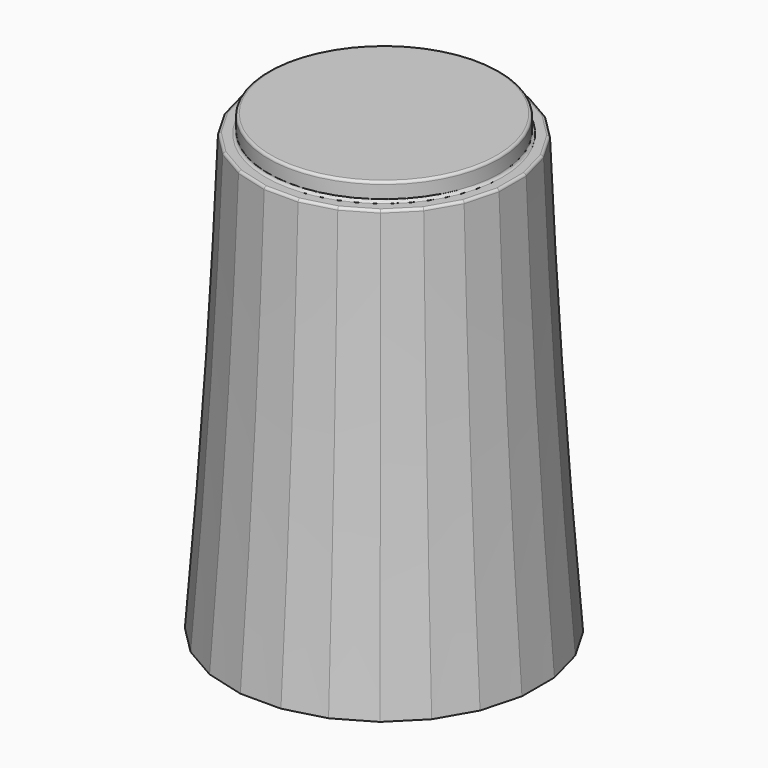
from build123d import *

# Parameters (mm, degrees)
SKETCH091_R     = 4.5
PAD022_DEPTH    = 0.7
SKETCH090_R     = 5
POCKET034_DEPTH = 1
SKETCH088_R     = 4.65
POCKET033_DEPTH = 1
POCKET035_DEPTH = 8
CHAMFER022_SIZE = 1.4
CHAMFER025_SIZE = 0.3
FILLET010_R     = 0.1


with BuildPart() as part:
    # Sketch093 → AdditiveLoft015 section 0
    with BuildSketch(Plane.XY):
        Polygon((-0.789915, 6), (-2.315914, 5.59111), (-3.684086, 4.801195), (-4.801195, 3.684086), (-5.59111, 2.315914), (-6, 0.789915), (-6, -0.789915), (-5.59111, -2.315914), (-4.801195, -3.684086), (-3.684086, -4.801195), (-2.315914, -5.59111), (-0.789915, -6), (0.789915, -6), (2.315914, -5.59111), (3.684086, -4.801195), (4.801195, -3.684086), (5.59111, -2.315914), (6, -0.789915), (6, 0.789915), (5.59111, 2.315914), (4.801195, 3.684086), (3.684086, 4.801195), (2.315914, 5.59111), (0.789915, 6), align=None)
    # Sketch092 → AdditiveLoft015 section 1
    with BuildSketch(Plane.XY.offset(7)):
        Polygon((-0.724089, 5.5), (-2.122921, 5.125184), (-3.377079, 4.401095), (-4.401095, 3.377079), (-5.125184, 2.122921), (-5.5, 0.724089), (-5.5, -0.724089), (-5.125184, -2.122921), (-4.401095, -3.377079), (-3.377079, -4.401095), (-2.122921, -5.125184), (-0.724089, -5.5), (0.724089, -5.5), (2.122921, -5.125184), (3.377079, -4.401095), (4.401095, -3.377079), (5.125184, -2.122921), (5.5, -0.724089), (5.5, 0.724089), (5.125184, 2.122921), (4.401095, 3.377079), (3.377079, 4.401095), (2.122921, 5.125184), (0.724089, 5.5), align=None)
    # Sketch094 → AdditiveLoft015 section 2
    with BuildSketch(Plane.XY.offset(17)):
        Polygon((-4.659258, 1.929928), (-5, 0.658262), (-5, -0.658262), (-4.659258, -1.929928), (-4.000996, -3.070072), (-3.070072, -4.000996), (-1.929928, -4.659258), (-0.658262, -5), (0.658262, -5), (1.929928, -4.659258), (3.070072, -4.000996), (4.000996, -3.070072), (4.659258, -1.929928), (5, -0.658262), (5, 0.658262), (4.659258, 1.929928), (4.000996, 3.070072), (3.070072, 4.000996), (1.929928, 4.659258), (0.658262, 5), (-0.658262, 5), (-1.929928, 4.659258), (-3.070072, 4.000996), (-4.000996, 3.070072), align=None)
    loft()

    # Sketch091 (on Face3 of AdditiveLoft015) → Pad022 (new body)
    with BuildSketch(Plane.XY.offset(17)):
        Circle(SKETCH091_R)
    extrude(amount=PAD022_DEPTH)

    # Sketch090 (on Face1 of Pad022) → Pocket034 (cut)
    with BuildSketch(Plane(origin=(0, 0, 0), x_dir=(1, 0, 0), z_dir=(0, 0, -1))):
        Circle(SKETCH090_R)
    extrude(amount=-POCKET034_DEPTH, mode=Mode.SUBTRACT)

    # Sketch088 (on Face28 of Pocket034) → Pocket033 (cut)
    with BuildSketch(Plane(origin=(0, 0, 1), x_dir=(1, 0, 0), z_dir=(0, 0, -1))):
        Circle(SKETCH088_R)
    extrude(amount=-POCKET033_DEPTH, mode=Mode.SUBTRACT)

    # Sketch089 (on Face32 of Pocket033) → Pocket035 (cut)
    with BuildSketch(Plane(origin=(0, 0, 2), x_dir=(1, 0, 0), z_dir=(0, 0, -1))):
        with BuildLine():
            ThreePointArc((-1.741757, 2.442598), (0, -3), (1.741757, 2.442598))
            Line((-1.741757, 2.442598), (1.741757, 2.442598))
        make_face()
    extrude(amount=-POCKET035_DEPTH, mode=Mode.SUBTRACT)

    # Chamfer022
    chamfer022_edges = [part.edges().sort_by_distance(p)[0] for p in [
        (0, 3, 2),
        (0, -2.442598, 2),
    ]]
    chamfer(chamfer022_edges, length=CHAMFER022_SIZE)

    # Chamfer025
    chamfer025_edges = [part.edges().sort_by_distance(p)[0] for p in [
        (-4.65, 0, 1),
    ]]
    chamfer(chamfer025_edges, length=CHAMFER025_SIZE)

    # Fillet010
    fillet010_edges = [part.edges().sort_by_distance(p)[0] for p in [
        (-4.5, 0, 17.7),
        (-4.829629, 1.294095, 17),
        (-4.330127, 2.5, 17),
        (-5, 0, 17),
        (-3.535534, 3.535534, 17),
        (-4.829629, -1.294095, 17),
        (-2.5, 4.330127, 17),
        (-4.330127, -2.5, 17),
        (-1.294095, 4.829629, 17),
        (-3.535534, -3.535534, 17),
        (0, 5, 17),
        (-2.5, -4.330127, 17),
        (1.294095, 4.829629, 17),
        (-1.294095, -4.829629, 17),
        (2.5, 4.330127, 17),
        (0, -5, 17),
        (3.535534, 3.535534, 17),
        (1.294095, -4.829629, 17),
        (4.330127, 2.5, 17),
        (2.5, -4.330127, 17),
        (4.829629, 1.294095, 17),
        (3.535534, -3.535534, 17),
        (5, 0, 17),
        (4.330127, -2.5, 17),
        (4.829629, -1.294095, 17),
        (-4.5, 0, 17),
    ]]
    fillet(fillet010_edges, radius=FILLET010_R)


solid = part.part
